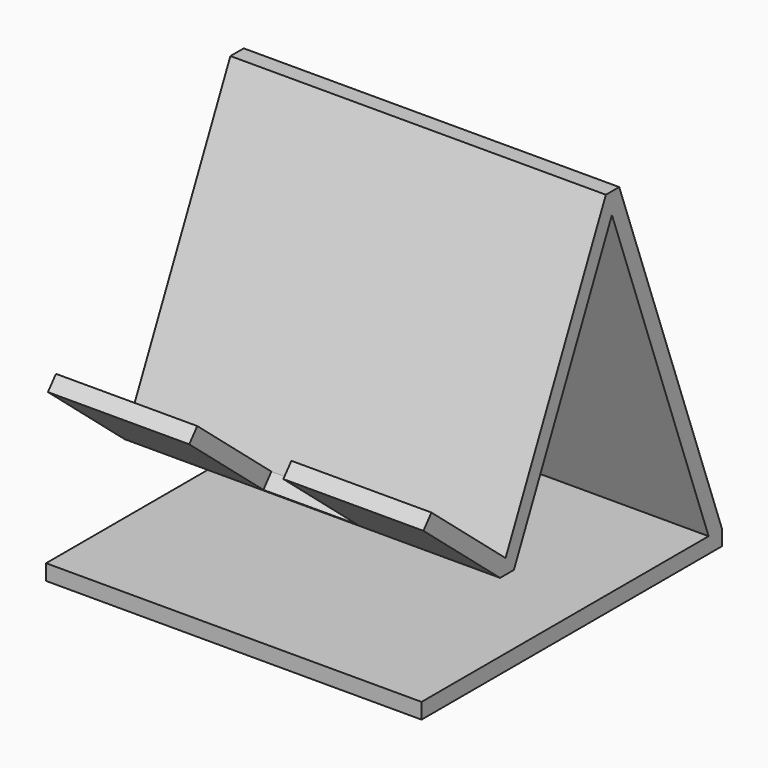
from build123d import *

# Parameters (mm, degrees)
F0_W     = 76.2
F0_H     = 76.2
F1_DEPTH = 3.175
F3_DEPTH = 76.2
F4_W     = 19.098544
F4_H     = 24.549261
F5_DEPTH = 4


with BuildPart() as f1:
    # F0 (on Top) → F1 (new body)
    with BuildSketch(Plane.XY):
        with Locations((-12.826032, -9.711786)):
            Rectangle(F0_W, F0_H)
    extrude(amount=F1_DEPTH)

    # F2 (on face) → F3 (join)
    with BuildSketch(Plane(origin=(-50.926032, 0, 0), x_dir=(0, -1, 0), z_dir=(-1, 0, 0))):
        Polygon((1.052486, 74.779578), (-0.483229, 70.560237), (24.38552, 17.229033), (27.888745, 17.229033), (26.499598, 20.208069), align=None)
        Polygon((45.305423, 35.98803), (26.499598, 20.208069), (27.888745, 17.229033), (47.346274, 33.555839), align=None)
        Polygon((-2.326279, 74.779578), (-28.388214, 3.175), (-25.009449, 3.175), (-0.483229, 70.560237), (1.052486, 74.779578), align=None)
    extrude(amount=-F3_DEPTH)

    # F4 (on face) → F5 (cut)
    with BuildSketch(Plane(origin=(0, -0.998464, -1.189923), x_dir=(1, 0, 0), z_dir=(0, 0.642788, 0.766044))):
        with Locations((-12.696923, -45.563997)):
            Rectangle(F4_W, F4_H)
    extrude(amount=-F5_DEPTH, mode=Mode.SUBTRACT)


solid = f1.part
